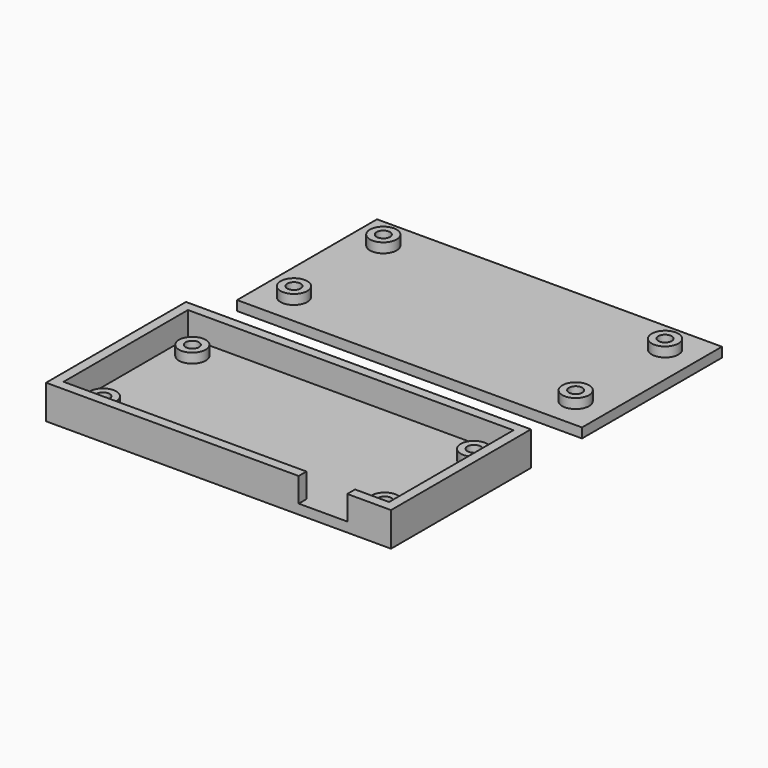
from build123d import *

# Parameters (mm, degrees)
F0_R     = 2.75
F0_W     = 10
F0_H     = 1
F0_R_2   = 1.375
F0_H_2   = 2
F1_DEPTH = 2
F2_DEPTH = 4
F3_DEPTH = 7
F4_SIZE  = 1.5
F5_W     = 71
F5_H     = 36
F5_R     = 2.75
F5_R_2   = 1.375
F6_DEPTH = 2
F7_DEPTH = 4


with BuildPart() as f1:
    # F0 (on Top) → F1 (new body)
    with BuildSketch(Plane.XY):
        Polygon((33.5, -16), (26.5, -16), (26.5, -18), (35.5, -18), (35.5, 18), (-35.5, 18), (-35.5, -18), (16.5, -18), (16.5, -16), (-33.5, -16), (-33.5, 16), (33.5, 16), align=None)
        Polygon((26.5, -15), (32.5, -15), (32.5, 15), (-32.5, 15), (-32.5, -15), (16.5, -15), align=None)
        with Locations((-29, -11.5)):
            Circle(F0_R, mode=Mode.SUBTRACT)
        with Locations((29, -11.5)):
            Circle(F0_R, mode=Mode.SUBTRACT)
        with Locations((-29, 11.5)):
            Circle(F0_R, mode=Mode.SUBTRACT)
        with Locations((29, 11.5)):
            Circle(F0_R, mode=Mode.SUBTRACT)
        Polygon((32.5, 15), (32.5, -15), (26.5, -15), (26.5, -16), (33.5, -16), (33.5, 16), (-33.5, 16), (-33.5, -16), (16.5, -16), (16.5, -15), (-32.5, -15), (-32.5, 15), align=None)
        with Locations((21.5, -15.5)):
            Rectangle(F0_W, F0_H)
        with Locations((29, 11.5)):
            Circle(F0_R)
        with Locations((29, 11.5)):
            Circle(F0_R_2, mode=Mode.SUBTRACT)
        with Locations((29, -11.5)):
            Circle(F0_R)
        with Locations((29, -11.5)):
            Circle(F0_R_2, mode=Mode.SUBTRACT)
        with Locations((-29, 11.5)):
            Circle(F0_R)
        with Locations((-29, 11.5)):
            Circle(F0_R_2, mode=Mode.SUBTRACT)
        with Locations((-29, -11.5)):
            Circle(F0_R)
        with Locations((-29, -11.5)):
            Circle(F0_R_2, mode=Mode.SUBTRACT)
        with Locations((21.5, -17)):
            Rectangle(F0_W, F0_H_2)
    extrude(amount=F1_DEPTH)

    # F0 (on Top) → F2 (join)
    with BuildSketch(Plane.XY):
        with Locations((29, 11.5)):
            Circle(F0_R)
        with Locations((29, 11.5)):
            Circle(F0_R_2, mode=Mode.SUBTRACT)
        with Locations((29, -11.5)):
            Circle(F0_R)
        with Locations((29, -11.5)):
            Circle(F0_R_2, mode=Mode.SUBTRACT)
        with Locations((-29, 11.5)):
            Circle(F0_R)
        with Locations((-29, 11.5)):
            Circle(F0_R_2, mode=Mode.SUBTRACT)
        with Locations((-29, -11.5)):
            Circle(F0_R)
        with Locations((-29, -11.5)):
            Circle(F0_R_2, mode=Mode.SUBTRACT)
    extrude(amount=F2_DEPTH)

    # F0 (on Top) → F3 (join)
    with BuildSketch(Plane.XY):
        Polygon((33.5, -16), (26.5, -16), (26.5, -18), (35.5, -18), (35.5, 18), (-35.5, 18), (-35.5, -18), (16.5, -18), (16.5, -16), (-33.5, -16), (-33.5, 16), (33.5, 16), align=None)
    extrude(amount=F3_DEPTH)

    # F4
    f4_edges = [f1.edges().sort_by_distance(p)[0] for p in [
        (-30.375, -11.5, 0),
        (27.625, -11.5, 0),
        (27.625, 11.5, 0),
        (-30.375, 11.5, 0),
    ]]
    chamfer(f4_edges, length=F4_SIZE)


with BuildPart() as f6:
    # F5 (on Top) → F6 (new body)
    with BuildSketch(Plane.XY):
        with Locations((0, 49.1447374225)):
            Rectangle(F5_W, F5_H)
        with Locations((-29, 37.6447374225)):
            Circle(F5_R, mode=Mode.SUBTRACT)
        with Locations((29, 37.6447374225)):
            Circle(F5_R, mode=Mode.SUBTRACT)
        with Locations((-29, 60.6447374225)):
            Circle(F5_R, mode=Mode.SUBTRACT)
        with Locations((29, 60.6447374225)):
            Circle(F5_R, mode=Mode.SUBTRACT)
        with Locations((-29, 60.6447374225)):
            Circle(F5_R)
        with Locations((-29, 60.6447374225)):
            Circle(F5_R_2, mode=Mode.SUBTRACT)
        with Locations((-29, 37.6447374225)):
            Circle(F5_R)
        with Locations((-29, 37.6447374225)):
            Circle(F5_R_2, mode=Mode.SUBTRACT)
        with Locations((29, 60.6447374225)):
            Circle(F5_R)
        with Locations((29, 60.6447374225)):
            Circle(F5_R_2, mode=Mode.SUBTRACT)
        with Locations((29, 37.6447374225)):
            Circle(F5_R)
        with Locations((29, 37.6447374225)):
            Circle(F5_R_2, mode=Mode.SUBTRACT)
        with Locations((-29, 60.6447374225)):
            Circle(F5_R_2)
        with Locations((-29, 37.6447374225)):
            Circle(F5_R_2)
        with Locations((29, 60.6447374225)):
            Circle(F5_R_2)
        with Locations((29, 37.6447374225)):
            Circle(F5_R_2)
    extrude(amount=F6_DEPTH)

    # F5 (on Top) → F7 (join)
    with BuildSketch(Plane.XY):
        with Locations((-29, 37.6447374225)):
            Circle(F5_R)
        with Locations((-29, 37.6447374225)):
            Circle(F5_R_2, mode=Mode.SUBTRACT)
        with Locations((29, 37.6447374225)):
            Circle(F5_R)
        with Locations((29, 37.6447374225)):
            Circle(F5_R_2, mode=Mode.SUBTRACT)
        with Locations((29, 60.6447374225)):
            Circle(F5_R)
        with Locations((29, 60.6447374225)):
            Circle(F5_R_2, mode=Mode.SUBTRACT)
        with Locations((-29, 60.6447374225)):
            Circle(F5_R)
        with Locations((-29, 60.6447374225)):
            Circle(F5_R_2, mode=Mode.SUBTRACT)
    extrude(amount=F7_DEPTH)


solid = Compound([f1.part, f6.part])
